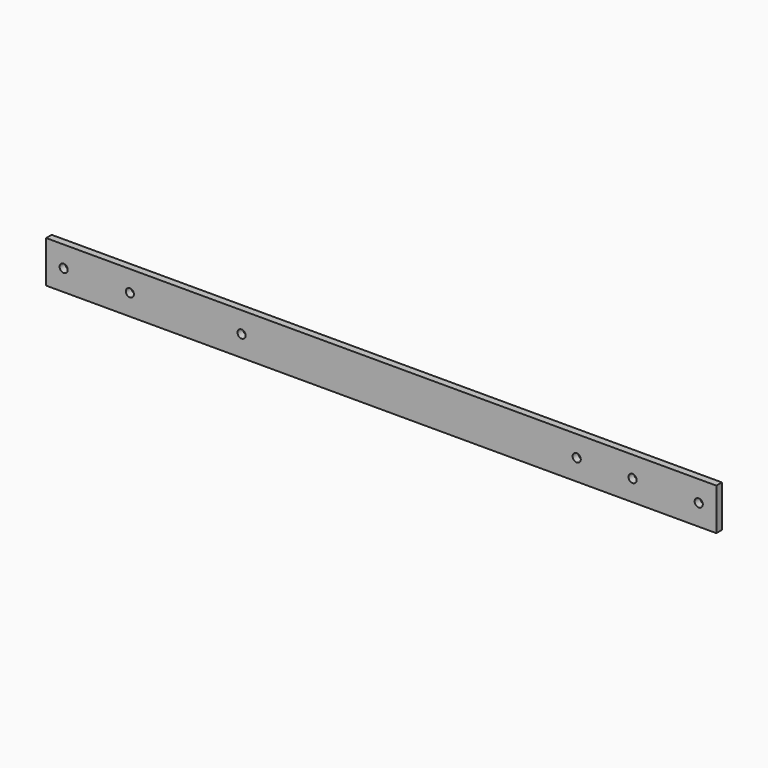
from build123d import *

# Parameters (mm, degrees)
F0_W     = 304.8
F0_H     = 19.05
F1_DEPTH = 3.175
F2_R     = 1.855
F3_DEPTH = 25.4


with BuildPart() as f1:
    # F0 (on Front) → F1 (new body)
    with BuildSketch(Plane.XZ):
        with Locations((-152.4, 9.525)):
            Rectangle(F0_W, F0_H)
    extrude(amount=F1_DEPTH)

    # F2 (on face) → F3 (cut)
    with BuildSketch(Plane.XZ.offset(3.175)):
        with Locations((-296.8, 9.525)):
            Circle(F2_R)
        with Locations((-266.7, 9.525)):
            Circle(F2_R)
        with Locations((-215.9, 9.525)):
            Circle(F2_R)
        with Locations((-63.5, 9.525)):
            Circle(F2_R)
        with Locations((-38.1, 9.525)):
            Circle(F2_R)
        with Locations((-8, 9.525)):
            Circle(F2_R)
    extrude(amount=-F3_DEPTH, mode=Mode.SUBTRACT)


solid = f1.part
